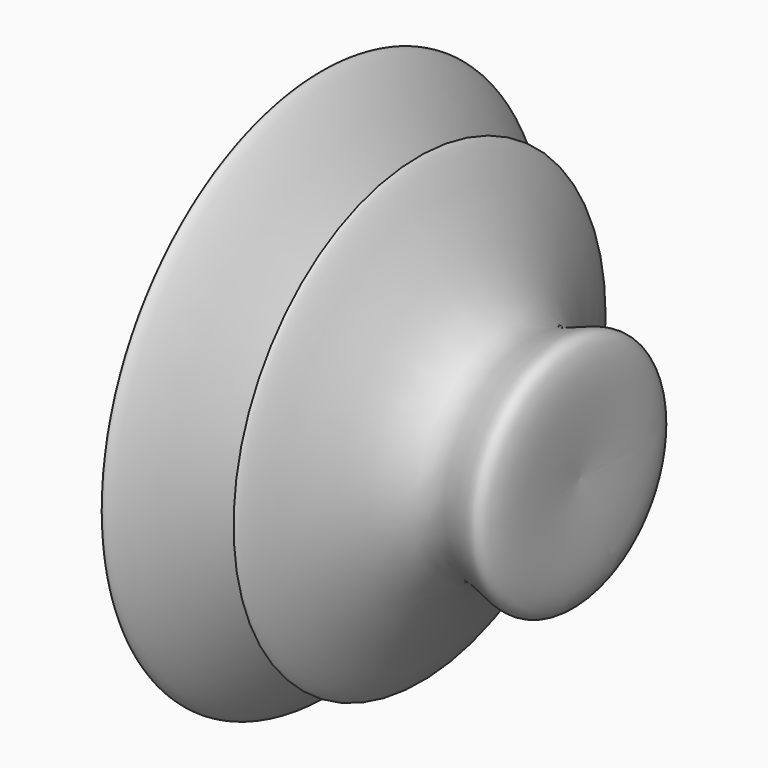
from build123d import *

# Parameters (mm, degrees)
F2_R     = 32.2060480369
F3_DEPTH = 69.342


with BuildPart() as f1:
    # F0 (on Top) → F1 (revolve)
    with BuildSketch(Plane.XY):
        with BuildLine():
            Line((-45.1341569424, 0), (23.4719198197, 0))
            add(Edge.make_bspline(
                [(-45.1341569424, 0), (-50.6329872597, 15.7940434487), (-62.032086956, 48.5351657399), (3.1893514372, -2.7850015854), (-49.1574738243, 41.051906203), (-62.236203959, 109.5352999254), (-19.0055449534, 22.1588986359), (-30.815284627, 94.5261047866), (-3.9539918026, 18.0475734789), (26.8131962882, 46.9854201411), (24.6848982834, 17.0570448982), (23.4719198197, 0)],
                knots=[0, 0, 0, 0, 0.1076372732, 0.2231325459, 0.3450152586, 0.4617664208, 0.5869204037, 0.6757906487, 0.8010774225, 0.8866282814, 1, 1, 1, 1], degree=3))
        make_face()
    revolve(axis=Axis((-8.3904452622, 0, 0), (-1, 0, 0)))

    # F2 (on Right) → F3 (cut)
    with BuildSketch(Plane.YZ):
        Circle(F2_R)
    extrude(amount=-F3_DEPTH, mode=Mode.SUBTRACT)


solid = f1.part
